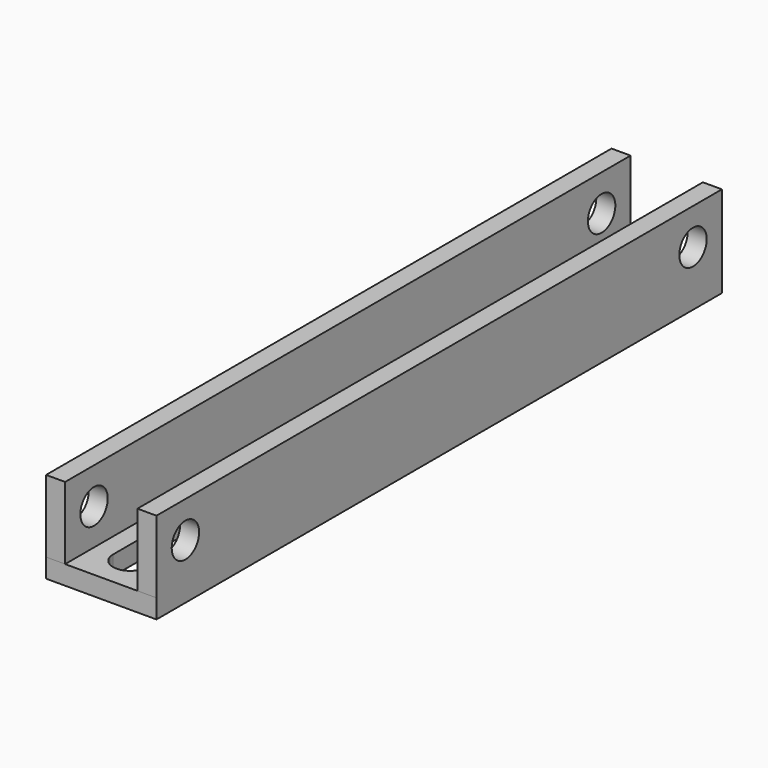
from build123d import *

# Parameters (mm, degrees)
PAD_DEPTH               = 3
SKETCH001_W             = 55.7
SKETCH001_H             = 14.4
SKETCH001_R             = 2.7
PAD001_DEPTH            = 3
PAD_MIRRORED_2_DEPTH    = 3
SKETCH001_MIRRORED_2_W  = 55.7
SKETCH001_MIRRORED_2_H  = 14.4
SKETCH001_MIRRORED_2_R  = 2.7
PAD001_MIRRORED_2_DEPTH = 3


with BuildPart() as part:
    # Sketch → Pad (new body)
    with BuildSketch(Plane.XY):
        with BuildLine():
            ThreePointArc((2.7, 50), (1.909196, 51.909202), (0, 52.700021))
            Line((0, 52.700021), (0, 55.700021))
            Line((0, 55.700021), (8.7, 55.700021))
            Line((8.7, 55.700021), (8.7, 0))
            Line((8.7, 0), (2.7, 0))
            Line((2.7, 0), (2.7, 50))
        make_face()
    pad = extrude(amount=PAD_DEPTH)

    # Sketch001 → Pad001 (join)
    with BuildSketch(Plane.YZ.offset(8.7)):
        with Locations((27.85, 7.2)):
            Rectangle(SKETCH001_W, SKETCH001_H)
        with Locations((50, 8.7)):
            Circle(SKETCH001_R, mode=Mode.SUBTRACT)
    pad001 = extrude(amount=-PAD001_DEPTH)

    # Sketch Mirrored 2 → Pad Mirrored 2 (add)
    with BuildSketch(Plane(origin=(0, 0, 0), x_dir=(-1, 0, 0), z_dir=(0, 0, -1))):
        with BuildLine():
            ThreePointArc((2.7, 50), (1.909196, 51.909202), (0, 52.700021))
            Line((0, 52.700021), (0, 55.700021))
            Line((0, 55.700021), (8.7, 55.700021))
            Line((8.7, 55.700021), (8.7, 0))
            Line((8.7, 0), (2.7, 0))
            Line((2.7, 0), (2.7, 50))
        make_face()
    pad_mirrored_2 = extrude(amount=-PAD_MIRRORED_2_DEPTH)

    # Sketch001 Mirrored 2 → Pad001 Mirrored 2 (add)
    with BuildSketch(Plane.YZ.offset(-8.7)):
        with Locations((27.85, 7.2)):
            Rectangle(SKETCH001_MIRRORED_2_W, SKETCH001_MIRRORED_2_H)
        with Locations((50, 8.7)):
            Circle(SKETCH001_MIRRORED_2_R, mode=Mode.SUBTRACT)
    pad001_mirrored_2 = extrude(amount=PAD001_MIRRORED_2_DEPTH)

    # Mirrored001: Pad, Pad001, Pad Mirrored 2, Pad001 Mirrored 2 across Sketch H_Axis
    add(pad.mirror(Plane.ZX))
    add(pad001.mirror(Plane.ZX))
    add(pad_mirrored_2.mirror(Plane.ZX))
    add(pad001_mirrored_2.mirror(Plane.ZX))


solid = part.part
